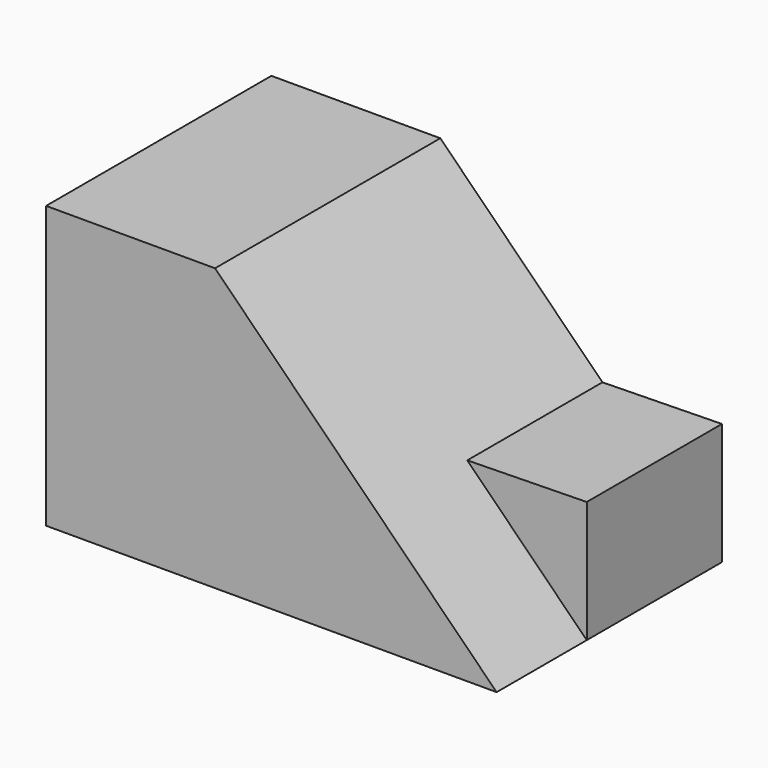
from build123d import *

# Parameters (mm, degrees)
F0_W     = 50.8
F0_H     = 31.75
F1_DEPTH = 31.75
F3_DEPTH = 31.751
F4_W     = 19.05
F4_H     = 19.05
F5_DEPTH = 19.05
F7_DEPTH = 19.051


with BuildPart() as f1:
    # F0 (on Front) → F1 (new body)
    with BuildSketch(Plane.XZ):
        with Locations((-25.4, 15.875)):
            Rectangle(F0_W, F0_H)
    extrude(amount=F1_DEPTH)

    # F2 (on face) → F3 (cut, through all)
    with BuildSketch(Plane.XZ.offset(31.75)):
        Polygon((0, 31.75), (-31.75, 31.75), (0, 0), align=None)
    extrude(amount=-F3_DEPTH, mode=Mode.SUBTRACT)

    # F4 (on face) → F5 (join)
    with BuildSketch(Plane(origin=(0, 0, 0), x_dir=(0.707107, 0, -0.707107), z_dir=(0.707107, 0, 0.707107))):
        with Locations((-9.525, -9.525)):
            Rectangle(F4_W, F4_H)
    extrude(amount=F5_DEPTH)

    # F6 (on face) → F7 (cut, through all)
    with BuildSketch(Plane.XZ.offset(19.05)):
        Polygon((0, 13.716), (0, 0), (13.470384, 13.470384), (0, 26.940768), (-13.470384, 13.470384), align=None)
    extrude(amount=-F7_DEPTH, mode=Mode.SUBTRACT)


solid = f1.part
